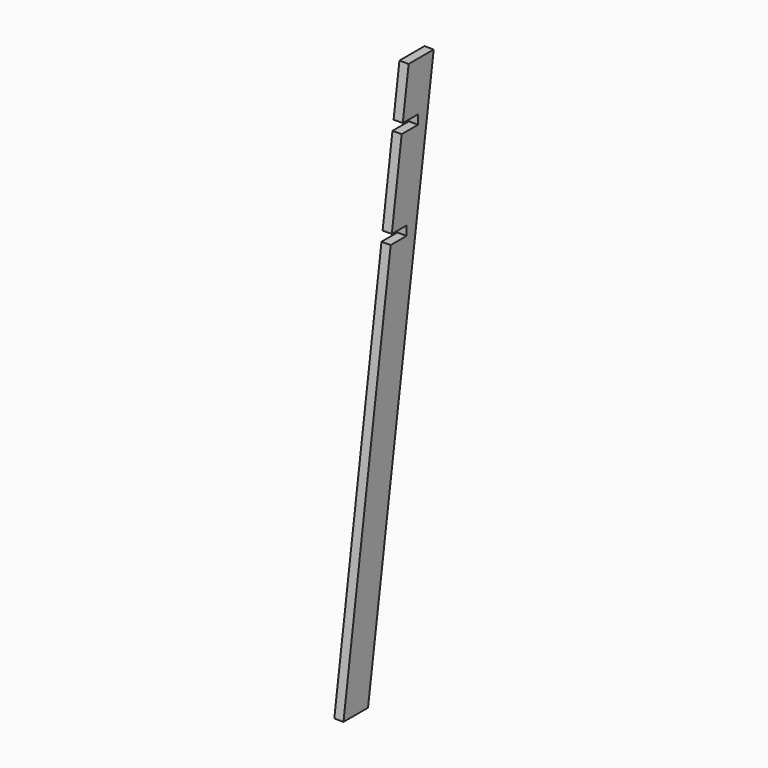
from build123d import *

# Parameters (mm, degrees)
F1_DEPTH = 30
F2_W     = 70
F2_H     = 30
F3_DEPTH = 30
F4_W     = 95.079931
F4_H     = 30
F5_DEPTH = 30


with BuildPart() as f1:
    # F0 (on Right) → F1 (new body)
    with BuildSketch(Plane.YZ):
        Polygon((133.790882, 890), (31.580462, 890), (-233.790882, -890), (-133.790882, -890), align=None)
    extrude(amount=F1_DEPTH)

    # F2 (on Right) → F3 (cut)
    with BuildSketch(Plane.YZ):
        with Locations((35, 715)):
            Rectangle(F2_W, F2_H)
    extrude(amount=F3_DEPTH, mode=Mode.SUBTRACT)

    # F4 (on Right) → F5 (cut)
    with BuildSketch(Plane.YZ):
        with Locations((-24.192585, 415)):
            Rectangle(F4_W, F4_H)
    extrude(amount=F5_DEPTH, mode=Mode.SUBTRACT)


solid = f1.part
